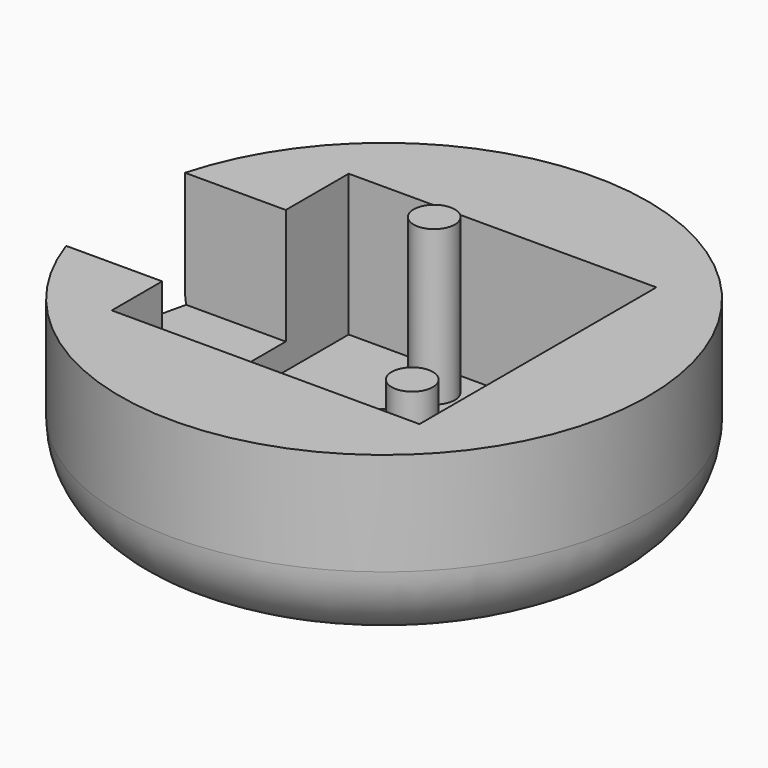
from build123d import *

# Parameters (mm, degrees)
F0_R     = 20.5
F0_R_2   = 19
F0_W     = 23.9
F0_H     = 23
F2_DEPTH = 14
F1_W     = 23.9
F1_H     = 23
F1_R     = 2.25
F1_R_2   = 8.3
F0_R_3   = 2.25
F0_R_4   = 1.6
F3_DEPTH = 3
F4_R     = 6
F6_DEPTH = 15
F5_W     = 12
F5_H     = 3
F7_DEPTH = 25
F8_DEPTH = 25


with BuildPart() as f2:
    # F0 (on Top) → F2 (new body)
    with BuildSketch(Plane.XY):
        Circle(F0_R)
        Circle(F0_R_2, mode=Mode.SUBTRACT)
        Circle(F0_R_2)
        Rectangle(F0_W, F0_H, mode=Mode.SUBTRACT)
    extrude(amount=F2_DEPTH)

    # F1 (on face) + F0 (on Top) → F3 (join)
    with BuildSketch(Plane.XY):
        Rectangle(F1_W, F1_H)
        with Locations((9.15, -8.7)):
            Circle(F1_R, mode=Mode.SUBTRACT)
        with Locations((1.3, -0.9836626705)):
            Circle(F1_R_2, mode=Mode.SUBTRACT)
        with Locations((-3.15, 8.8)):
            Circle(F1_R, mode=Mode.SUBTRACT)
    with BuildSketch(Plane.XY):
        with Locations((-3.15, 8.8)):
            Circle(F0_R_3)
        with Locations((-3.15, 8.8)):
            Circle(F0_R_4, mode=Mode.SUBTRACT)
        with Locations((9.15, -8.7)):
            Circle(F0_R_3)
        with Locations((9.15, -8.7)):
            Circle(F0_R_4, mode=Mode.SUBTRACT)
        with Locations((-3.15, 8.8)):
            Circle(F0_R_4)
        with Locations((9.15, -8.7)):
            Circle(F0_R_4)
    extrude(amount=F3_DEPTH)

    # F4
    f4_edges = [f2.edges().sort_by_distance(p)[0] for p in [
        (-20.5, 0, 0),
    ]]
    fillet(f4_edges, radius=F4_R)

    # F0 (on Top) → F6 (join)
    with BuildSketch(Plane.XY):
        with Locations((-3.15, 8.8)):
            Circle(F0_R_4)
        with Locations((9.15, -8.7)):
            Circle(F0_R_4)
    extrude(amount=F6_DEPTH)

    # F5 (on Right) → F7 (cut)
    with BuildSketch(Plane.YZ):
        with Locations((-0.6070649059, 6.5)):
            Rectangle(F5_W, F5_H)
    extrude(amount=-F7_DEPTH, mode=Mode.SUBTRACT)

    # F8 (cut): a face of the model
    f8_faces = [f2.faces().sort_by_distance(p)[0] for p in [
        (-16.077019229, -0.5627771714, 8),
    ]]
    extrude(f8_faces, amount=-F8_DEPTH, mode=Mode.SUBTRACT)


solid = f2.part
